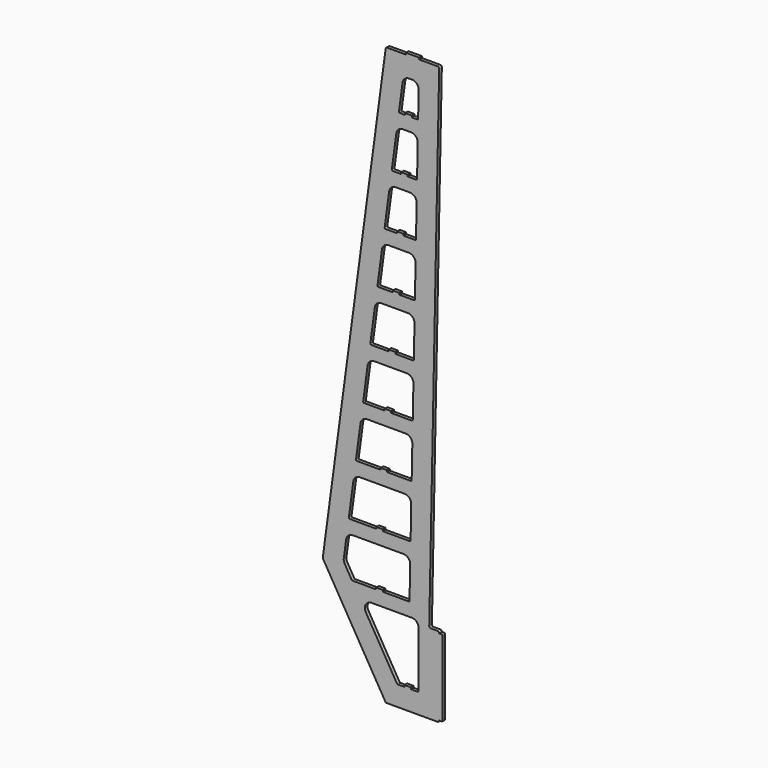
from build123d import *

# Parameters (mm, degrees)
F1_DEPTH = 3.175


with BuildPart() as f1:
    # F0 (on Front) → F1 (new body, symmetric)
    with BuildSketch(Plane.XZ):
        with BuildLine():
            ThreePointArc((0, 149.225), (-0.929936, 151.470064), (-3.175, 152.4))
            Line((-3.175, 152.4), (-15.810414, 152.4))
            ThreePointArc((-15.810414, 152.4), (-18.077968, 153.352653), (-18.98477, 155.63893))
            Line((-18.98477, 155.63893), (-0.06523, 1095.06977))
            ThreePointArc((-0.06523, 1095.06977), (-0.972032, 1097.356047), (-3.239586, 1098.3087))
            Line((-3.239586, 1098.3087), (-37.7825, 1098.3087))
            ThreePointArc((-37.7825, 1098.3087), (-38.007006, 1098.401694), (-38.1, 1098.6262))
            Line((-38.1, 1098.6262), (-38.1, 1101.1662))
            ThreePointArc((-38.1, 1101.1662), (-38.192994, 1101.390706), (-38.4175, 1101.4837))
            Line((-38.4175, 1101.4837), (-63.1825, 1101.4837))
            ThreePointArc((-63.1825, 1101.4837), (-63.407006, 1101.390706), (-63.5, 1101.1662))
            Line((-63.5, 1101.1662), (-63.5, 1098.6262))
            ThreePointArc((-63.5, 1098.6262), (-63.592994, 1098.401694), (-63.8175, 1098.3087))
            Line((-63.8175, 1098.3087), (-98.822513, 1098.3087))
            ThreePointArc((-98.822513, 1098.3087), (-100.912993, 1097.523369), (-101.969319, 1095.555876))
            Line((-101.969319, 1095.555876), (-221.541649, 204.290405))
            ThreePointArc((-221.541649, 204.290405), (-221.506427, 203.236832), (-221.128194, 202.252862))
            Line((-221.128194, 202.252862), (-102.521718, 1.559633))
            ThreePointArc((-102.521718, 1.559633), (-101.361871, 0.417337), (-99.788366, 0))
            Line((-99.788366, 0), (-3.175, 0))
            ThreePointArc((-3.175, 0), (-0.929936, 0.929936), (0, 3.175))
            Line((0, 3.175), (4.7625, 3.175))
            ThreePointArc((4.7625, 3.175), (5.885032, 3.639968), (6.35, 4.7625))
            Line((6.35, 4.7625), (6.35, 147.6375))
            ThreePointArc((6.35, 147.6375), (5.885032, 148.760032), (4.7625, 149.225))
            Line((4.7625, 149.225), (0, 149.225))
        make_face()
        with BuildLine():
            Line((-166.49185, 184.688516), (-179.931816, 207.430194))
            ThreePointArc((-179.931816, 207.430194), (-181.444749, 211.366074), (-181.585635, 215.580368))
            Line((-181.585635, 215.580368), (-177.088983, 249.097405))
            ThreePointArc((-177.088983, 249.097405), (-172.863678, 256.967375), (-164.501756, 260.1087))
            Line((-164.501756, 260.1087), (-67.946886, 260.1087))
            ThreePointArc((-67.946886, 260.1087), (-58.876671, 256.298086), (-55.249461, 247.152982))
            Line((-55.249461, 247.152982), (-56.491833, 185.464235))
            ThreePointArc((-56.491833, 185.464235), (-56.967838, 184.362423), (-58.079011, 183.9087))
            Line((-58.079011, 183.9087), (-107.005661, 183.9087))
            ThreePointArc((-107.005661, 183.9087), (-107.230167, 184.001694), (-107.323161, 184.2262))
            Line((-107.323161, 184.2262), (-107.323161, 186.7662))
            ThreePointArc((-107.323161, 186.7662), (-107.416154, 186.990706), (-107.640661, 187.0837))
            Line((-107.640661, 187.0837), (-119.705661, 187.0837))
            ThreePointArc((-119.705661, 187.0837), (-119.930167, 186.990706), (-120.023161, 186.7662))
            Line((-120.023161, 186.7662), (-120.023161, 184.2262))
            ThreePointArc((-120.023161, 184.2262), (-120.116154, 184.001694), (-120.340661, 183.9087))
            Line((-120.340661, 183.9087), (-165.125174, 183.9087))
            ThreePointArc((-165.125174, 183.9087), (-165.911926, 184.117368), (-166.49185, 184.688516))
        make_face(mode=Mode.SUBTRACT)
        with BuildLine():
            ThreePointArc((-54.445674, 287.064235), (-54.921679, 285.962423), (-56.032852, 285.5087))
            Line((-56.032852, 285.5087), (-106.699503, 285.5087))
            ThreePointArc((-106.699503, 285.5087), (-106.924009, 285.601694), (-107.017003, 285.8262))
            Line((-107.017003, 285.8262), (-107.017003, 288.3662))
            ThreePointArc((-107.017003, 288.3662), (-107.109996, 288.590706), (-107.334503, 288.6837))
            Line((-107.334503, 288.6837), (-119.399503, 288.6837))
            ThreePointArc((-119.399503, 288.6837), (-119.624009, 288.590706), (-119.717003, 288.3662))
            Line((-119.717003, 288.3662), (-119.717003, 285.8262))
            ThreePointArc((-119.717003, 285.8262), (-119.809996, 285.601694), (-120.034503, 285.5087))
            Line((-120.034503, 285.5087), (-170.389335, 285.5087))
            ThreePointArc((-170.389335, 285.5087), (-171.58417, 286.05096), (-171.962739, 287.307288))
            Line((-171.962739, 287.307288), (-163.45831, 350.697405))
            ThreePointArc((-163.45831, 350.697405), (-159.233004, 358.567375), (-150.871083, 361.7087))
            Line((-150.871083, 361.7087), (-65.900727, 361.7087))
            ThreePointArc((-65.900727, 361.7087), (-56.830511, 357.898086), (-53.203302, 348.752982))
            Line((-53.203302, 348.752982), (-54.445674, 287.064235))
        make_face(mode=Mode.SUBTRACT)
        with BuildLine():
            Line((-39.37, 145.8087), (-39.37, 39.6875))
            ThreePointArc((-39.37, 39.6875), (-39.834968, 38.564968), (-40.9575, 38.1))
            Line((-40.9575, 38.1), (-53.311158, 38.1))
            ThreePointArc((-53.311158, 38.1), (-53.535665, 38.192994), (-53.628658, 38.4175))
            Line((-53.628658, 38.4175), (-53.628658, 40.9575))
            ThreePointArc((-53.628658, 40.9575), (-53.721652, 41.182006), (-53.946158, 41.275))
            Line((-53.946158, 41.275), (-66.011158, 41.275))
            ThreePointArc((-66.011158, 41.275), (-66.235665, 41.182006), (-66.328658, 40.9575))
            Line((-66.328658, 40.9575), (-66.328658, 38.4175))
            ThreePointArc((-66.328658, 38.4175), (-66.421652, 38.192994), (-66.646158, 38.1))
            Line((-66.646158, 38.1), (-78.954573, 38.1))
            ThreePointArc((-78.954573, 38.1), (-79.741325, 38.308668), (-80.321249, 38.879816))
            Line((-80.321249, 38.879816), (-139.695878, 139.347231))
            ThreePointArc((-139.695878, 139.347231), (-139.793124, 152.102719), (-128.76247, 158.5087))
            Line((-128.76247, 158.5087), (-52.07, 158.5087))
            ThreePointArc((-52.07, 158.5087), (-43.089744, 154.788956), (-39.37, 145.8087))
        make_face(mode=Mode.SUBTRACT)
        with BuildLine():
            ThreePointArc((-52.399514, 388.664235), (-52.875519, 387.562423), (-53.986692, 387.1087))
            Line((-53.986692, 387.1087), (-98.85733, 387.1087))
            ThreePointArc((-98.85733, 387.1087), (-99.081836, 387.201694), (-99.17483, 387.4262))
            Line((-99.17483, 387.4262), (-99.17483, 389.9662))
            ThreePointArc((-99.17483, 389.9662), (-99.267824, 390.190706), (-99.49233, 390.2837))
            Line((-99.49233, 390.2837), (-111.55733, 390.2837))
            ThreePointArc((-111.55733, 390.2837), (-111.781836, 390.190706), (-111.87483, 389.9662))
            Line((-111.87483, 389.9662), (-111.87483, 387.4262))
            ThreePointArc((-111.87483, 387.4262), (-111.967824, 387.201694), (-112.19233, 387.1087))
            Line((-112.19233, 387.1087), (-156.758662, 387.1087))
            ThreePointArc((-156.758662, 387.1087), (-157.953496, 387.65096), (-158.332065, 388.907288))
            Line((-158.332065, 388.907288), (-149.827636, 452.297405))
            ThreePointArc((-149.827636, 452.297405), (-145.602331, 460.167375), (-137.240409, 463.3087))
            Line((-137.240409, 463.3087), (-63.854567, 463.3087))
            ThreePointArc((-63.854567, 463.3087), (-54.784352, 459.498086), (-51.157142, 450.352982))
            Line((-51.157142, 450.352982), (-52.399514, 388.664235))
        make_face(mode=Mode.SUBTRACT)
        with BuildLine():
            ThreePointArc((-50.353355, 490.264235), (-50.82936, 489.162423), (-51.940533, 488.7087))
            Line((-51.940533, 488.7087), (-91.015157, 488.7087))
            ThreePointArc((-91.015157, 488.7087), (-91.239664, 488.801694), (-91.332657, 489.0262))
            Line((-91.332657, 489.0262), (-91.332657, 491.5662))
            ThreePointArc((-91.332657, 491.5662), (-91.425651, 491.790706), (-91.650157, 491.8837))
            Line((-91.650157, 491.8837), (-103.715157, 491.8837))
            ThreePointArc((-103.715157, 491.8837), (-103.939664, 491.790706), (-104.032657, 491.5662))
            Line((-104.032657, 491.5662), (-104.032657, 489.0262))
            ThreePointArc((-104.032657, 489.0262), (-104.125651, 488.801694), (-104.350157, 488.7087))
            Line((-104.350157, 488.7087), (-143.127988, 488.7087))
            ThreePointArc((-143.127988, 488.7087), (-144.322823, 489.25096), (-144.701392, 490.507288))
            Line((-144.701392, 490.507288), (-136.196963, 553.897405))
            ThreePointArc((-136.196963, 553.897405), (-131.971657, 561.767375), (-123.609736, 564.9087))
            Line((-123.609736, 564.9087), (-61.808408, 564.9087))
            ThreePointArc((-61.808408, 564.9087), (-52.738192, 561.098086), (-49.110983, 551.952982))
            Line((-49.110983, 551.952982), (-50.353355, 490.264235))
        make_face(mode=Mode.SUBTRACT)
        with BuildLine():
            ThreePointArc((-48.307195, 591.864235), (-48.7832, 590.762423), (-49.894374, 590.3087))
            Line((-49.894374, 590.3087), (-83.172985, 590.3087))
            ThreePointArc((-83.172985, 590.3087), (-83.397491, 590.401694), (-83.490485, 590.6262))
            Line((-83.490485, 590.6262), (-83.490485, 593.1662))
            ThreePointArc((-83.490485, 593.1662), (-83.583478, 593.390706), (-83.807985, 593.4837))
            Line((-83.807985, 593.4837), (-95.872985, 593.4837))
            ThreePointArc((-95.872985, 593.4837), (-96.097491, 593.390706), (-96.190485, 593.1662))
            Line((-96.190485, 593.1662), (-96.190485, 590.6262))
            ThreePointArc((-96.190485, 590.6262), (-96.283478, 590.401694), (-96.507985, 590.3087))
            Line((-96.507985, 590.3087), (-129.497315, 590.3087))
            ThreePointArc((-129.497315, 590.3087), (-130.692149, 590.85096), (-131.070718, 592.107288))
            Line((-131.070718, 592.107288), (-122.566289, 655.497405))
            ThreePointArc((-122.566289, 655.497405), (-118.340983, 663.367375), (-109.979062, 666.5087))
            Line((-109.979062, 666.5087), (-59.762249, 666.5087))
            ThreePointArc((-59.762249, 666.5087), (-50.692033, 662.698086), (-47.064823, 653.552982))
            Line((-47.064823, 653.552982), (-48.307195, 591.864235))
        make_face(mode=Mode.SUBTRACT)
        with BuildLine():
            ThreePointArc((-46.261036, 693.464235), (-46.737041, 692.362423), (-47.848214, 691.9087))
            Line((-47.848214, 691.9087), (-75.330825, 691.9087))
            ThreePointArc((-75.330825, 691.9087), (-75.555331, 692.001694), (-75.648325, 692.2262))
            Line((-75.648325, 692.2262), (-75.648325, 694.7662))
            ThreePointArc((-75.648325, 694.7662), (-75.741318, 694.990706), (-75.965825, 695.0837))
            Line((-75.965825, 695.0837), (-88.030825, 695.0837))
            ThreePointArc((-88.030825, 695.0837), (-88.255331, 694.990706), (-88.348325, 694.7662))
            Line((-88.348325, 694.7662), (-88.348325, 692.2262))
            ThreePointArc((-88.348325, 692.2262), (-88.441318, 692.001694), (-88.665825, 691.9087))
            Line((-88.665825, 691.9087), (-115.866641, 691.9087))
            ThreePointArc((-115.866641, 691.9087), (-117.061475, 692.45096), (-117.440044, 693.707288))
            Line((-117.440044, 693.707288), (-108.935615, 757.097405))
            ThreePointArc((-108.935615, 757.097405), (-104.71031, 764.967375), (-96.348389, 768.1087))
            Line((-96.348389, 768.1087), (-57.716089, 768.1087))
            ThreePointArc((-57.716089, 768.1087), (-48.645874, 764.298086), (-45.018664, 755.152982))
            Line((-45.018664, 755.152982), (-46.261036, 693.464235))
        make_face(mode=Mode.SUBTRACT)
        with BuildLine():
            ThreePointArc((-44.214877, 795.064235), (-44.690881, 793.962423), (-45.802055, 793.5087))
            Line((-45.802055, 793.5087), (-67.488652, 793.5087))
            ThreePointArc((-67.488652, 793.5087), (-67.713158, 793.601694), (-67.806152, 793.8262))
            Line((-67.806152, 793.8262), (-67.806152, 796.3662))
            ThreePointArc((-67.806152, 796.3662), (-67.899145, 796.590706), (-68.123652, 796.6837))
            Line((-68.123652, 796.6837), (-80.188652, 796.6837))
            ThreePointArc((-80.188652, 796.6837), (-80.413158, 796.590706), (-80.506152, 796.3662))
            Line((-80.506152, 796.3662), (-80.506152, 793.8262))
            ThreePointArc((-80.506152, 793.8262), (-80.599145, 793.601694), (-80.823652, 793.5087))
            Line((-80.823652, 793.5087), (-102.235968, 793.5087))
            ThreePointArc((-102.235968, 793.5087), (-103.430802, 794.05096), (-103.809371, 795.307288))
            Line((-103.809371, 795.307288), (-95.304942, 858.697405))
            ThreePointArc((-95.304942, 858.697405), (-91.079636, 866.567375), (-82.717715, 869.7087))
            Line((-82.717715, 869.7087), (-55.66993, 869.7087))
            ThreePointArc((-55.66993, 869.7087), (-46.599714, 865.898086), (-42.972504, 856.752982))
            Line((-42.972504, 856.752982), (-44.214877, 795.064235))
        make_face(mode=Mode.SUBTRACT)
        with BuildLine():
            ThreePointArc((-42.168717, 896.664235), (-42.644722, 895.562423), (-43.755895, 895.1087))
            Line((-43.755895, 895.1087), (-59.646479, 895.1087))
            ThreePointArc((-59.646479, 895.1087), (-59.870986, 895.201694), (-59.963979, 895.4262))
            Line((-59.963979, 895.4262), (-59.963979, 897.9662))
            ThreePointArc((-59.963979, 897.9662), (-60.056973, 898.190706), (-60.281479, 898.2837))
            Line((-60.281479, 898.2837), (-72.346479, 898.2837))
            ThreePointArc((-72.346479, 898.2837), (-72.570986, 898.190706), (-72.663979, 897.9662))
            Line((-72.663979, 897.9662), (-72.663979, 895.4262))
            ThreePointArc((-72.663979, 895.4262), (-72.756973, 895.201694), (-72.981479, 895.1087))
            Line((-72.981479, 895.1087), (-88.605294, 895.1087))
            ThreePointArc((-88.605294, 895.1087), (-89.800128, 895.65096), (-90.178697, 896.907288))
            Line((-90.178697, 896.907288), (-81.674268, 960.297405))
            ThreePointArc((-81.674268, 960.297405), (-77.448963, 968.167375), (-69.087042, 971.3087))
            Line((-69.087042, 971.3087), (-53.62377, 971.3087))
            ThreePointArc((-53.62377, 971.3087), (-44.553555, 967.498086), (-40.926345, 958.352982))
            Line((-40.926345, 958.352982), (-42.168717, 896.664235))
        make_face(mode=Mode.SUBTRACT)
        with BuildLine():
            Line((-57.160202, 1060.2087), (-51.833381, 1060.2087))
            ThreePointArc((-51.833381, 1060.2087), (-42.763165, 1056.398086), (-39.135955, 1047.252982))
            Line((-39.135955, 1047.252982), (-40.122558, 998.264235))
            ThreePointArc((-40.122558, 998.264235), (-40.598563, 997.162423), (-41.709736, 996.7087))
            Line((-41.709736, 996.7087), (-51.804306, 996.7087))
            ThreePointArc((-51.804306, 996.7087), (-52.028813, 996.801694), (-52.121806, 997.0262))
            Line((-52.121806, 997.0262), (-52.121806, 999.5662))
            ThreePointArc((-52.121806, 999.5662), (-52.2148, 999.790706), (-52.439306, 999.8837))
            Line((-52.439306, 999.8837), (-64.504306, 999.8837))
            ThreePointArc((-64.504306, 999.8837), (-64.728813, 999.790706), (-64.821806, 999.5662))
            Line((-64.821806, 999.5662), (-64.821806, 997.0262))
            ThreePointArc((-64.821806, 997.0262), (-64.9148, 996.801694), (-65.139306, 996.7087))
            Line((-65.139306, 996.7087), (-74.97462, 996.7087))
            ThreePointArc((-74.97462, 996.7087), (-76.169455, 997.25096), (-76.548024, 998.507288))
            Line((-76.548024, 998.507288), (-69.747429, 1049.197405))
            ThreePointArc((-69.747429, 1049.197405), (-65.522123, 1057.067375), (-57.160202, 1060.2087))
        make_face(mode=Mode.SUBTRACT)
    extrude(amount=F1_DEPTH, both=True)


solid = f1.part
